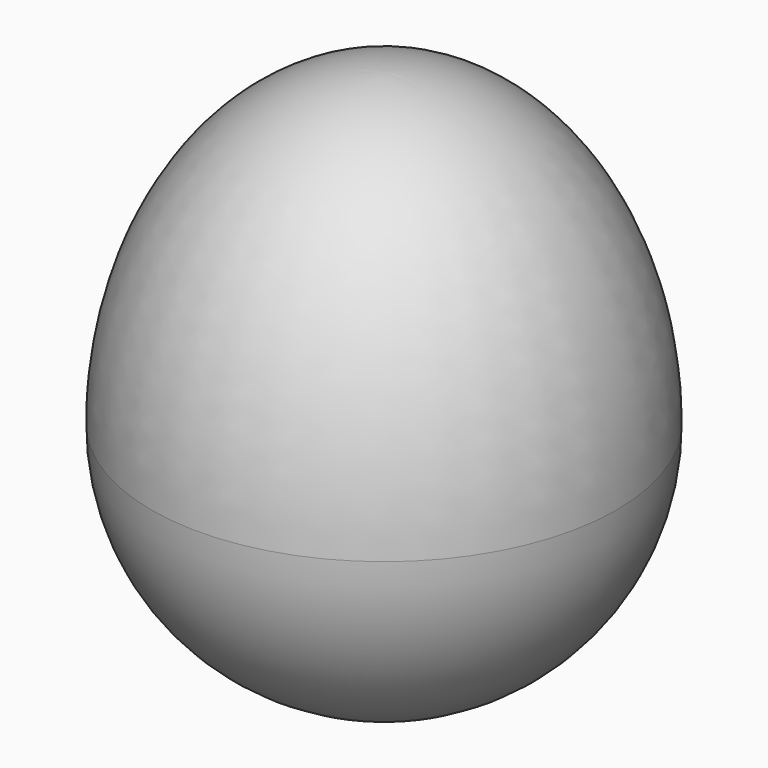
from build123d import *


with BuildPart() as f1:
    # F0 (on Front) → F1 (revolve)
    with BuildSketch(Plane.XZ):
        with BuildLine():
            Line((0, 25.4), (0, -19.05))
            ThreePointArc((0, -19.05), (13.4703841816, -13.4703841816), (19.05, 0))
            add(Edge.make_bspline(
                [(19.05, 0), (19.05, 25.4), (0, 25.4)],
                knots=[4.7123889804, 4.7123889804, 4.7123889804, 6.2831853072, 6.2831853072, 6.2831853072], degree=2, weights=[1, 0.7071067812, 1]))
        make_face()
    revolve(axis=Axis((0, 0, 3.175), (0, 0, -1)))


solid = f1.part
